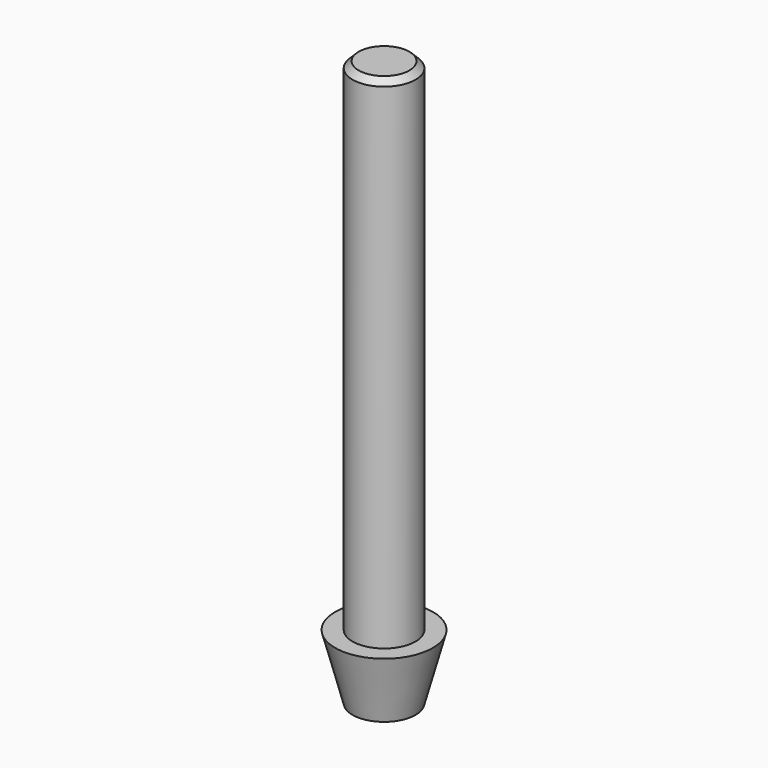
from build123d import *

# Parameters (mm, degrees)
F2_SIZE = 0.381


with BuildPart() as f1:
    # F0 (on Front) → F1 (revolve)
    with BuildSketch(Plane.XZ):
        Polygon((0, 35.0012), (0, 0), (1.95072, 0), (3.0226, 4.0005), (1.95072, 4.0005), (1.95072, 35.0012), align=None)
    revolve(axis=Axis((0, 0, 17.5006), (0, 0, 1)))

    # F2
    f2_edges = [f1.edges().sort_by_distance(p)[0] for p in [
        (-1.95072, 0, 35.0012),
    ]]
    chamfer(f2_edges, length=F2_SIZE)


solid = f1.part
